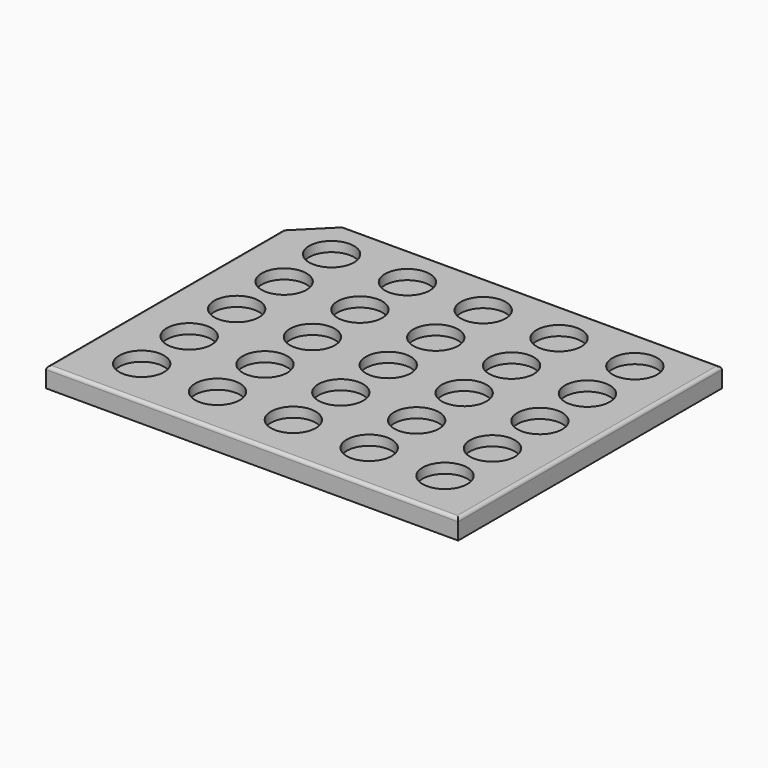
from build123d import *

# Parameters (mm, degrees)
F0_W     = 125
F0_H     = 100
F1_DEPTH = 6
F2_SIZE  = 10
F3_R     = 1
F4_R     = 6.8
F5_DEPTH = 3


with BuildPart() as f1:
    # F0 (on Top) → F1 (new body)
    with BuildSketch(Plane.XY):
        Rectangle(F0_W, F0_H)
    extrude(amount=F1_DEPTH)

    # F2
    f2_edges = [f1.edges().sort_by_distance(p)[0] for p in [
        (-62.5, 50, 3),
    ]]
    chamfer(f2_edges, length=F2_SIZE)

    # F3
    f3_edges = [f1.edges().sort_by_distance(p)[0] for p in [
        (-62.5, -5, 6),
        (0, -50, 6),
        (62.5, 0, 6),
        (5, 50, 6),
        (-57.5, 45, 6),
    ]]
    fillet(f3_edges, radius=F3_R)

    # F4 (on face) → F5 (cut)
    with BuildSketch(Plane.XY.offset(6)):
        with Locations((46.5, 37)):
            Circle(F4_R)
        with Locations((46.5, 19)):
            Circle(F4_R)
        with Locations((23.5, 37)):
            Circle(F4_R)
        with Locations((23.5, 19)):
            Circle(F4_R)
        with Locations((0.5, 37)):
            Circle(F4_R)
        with Locations((0.5, 19)):
            Circle(F4_R)
        with Locations((46.5, 1)):
            Circle(F4_R)
        with Locations((46.5, -17)):
            Circle(F4_R)
        with Locations((23.5, 1)):
            Circle(F4_R)
        with Locations((23.5, -17)):
            Circle(F4_R)
        with Locations((0.5, 1)):
            Circle(F4_R)
        with Locations((0.5, -17)):
            Circle(F4_R)
        with Locations((-22.5, 37)):
            Circle(F4_R)
        with Locations((-22.5, 19)):
            Circle(F4_R)
        with Locations((-22.5, 1)):
            Circle(F4_R)
        with Locations((-22.5, -17)):
            Circle(F4_R)
        with Locations((-45.5, 37)):
            Circle(F4_R)
        with Locations((-45.5, 19)):
            Circle(F4_R)
        with Locations((-45.5, 1)):
            Circle(F4_R)
        with Locations((-45.5, -17)):
            Circle(F4_R)
        with Locations((46.5, -35)):
            Circle(F4_R)
        with Locations((23.5, -35)):
            Circle(F4_R)
        with Locations((0.5, -35)):
            Circle(F4_R)
        with Locations((-22.5, -35)):
            Circle(F4_R)
        with Locations((-45.5, -35)):
            Circle(F4_R)
    extrude(amount=-F5_DEPTH, mode=Mode.SUBTRACT)


solid = f1.part
